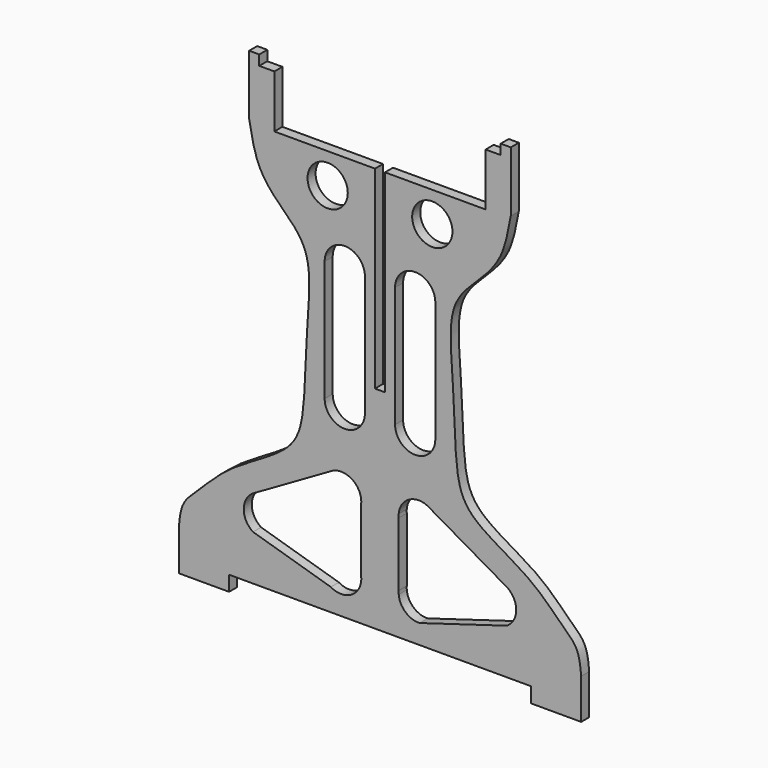
from build123d import *

# Parameters (mm, degrees)
F0_R     = 25.4
F1_DEPTH = 12.7
F2_W     = 12.7
F2_H     = 285.75
F3_DEPTH = 12.7
F5_DEPTH = 25.4
F7_DEPTH = 25.4


with BuildPart() as f1:
    # F0 (on Front) → F1 (new body)
    with BuildSketch(Plane.XZ):
        with BuildLine():
            Line((-6.35, 304.8), (0, 304.8))
            Line((0, 304.8), (0, 530.225))
            Line((0, 530.225), (-133.35, 530.225))
            Line((-133.35, 530.225), (-133.35, 596.9))
            Line((-133.35, 596.9), (-152.4, 596.9))
            Line((-152.4, 596.9), (-152.4, 609.6))
            Line((-152.4, 609.6), (-165.1, 609.6))
            Line((-165.1, 609.6), (-165.1, 533.4))
            add(Edge.make_bspline(
                [(-165.1, 533.4), (-161.9697013836, 516.0048850618), (-155.9318714731, 482.4525764355), (-125.5393550755, 449.0081112221), (-83.7666001834, 411.9480381505), (-93.3500119565, 326.8509854997), (-94.3836877464, 236.6940625404), (-106.4749493008, 180.4716743188), (-188.1929374524, 143.9043740357), (-228.1831750573, 100.3946907978), (-251.0192334088, 81.1936508198), (-252.9963492936, 61.0338134106), (-254, 50.8)],
                knots=[0, 0, 0, 0, 0.0959731621, 0.1851164057, 0.2805519957, 0.4025177519, 0.5319500735, 0.6289458648, 0.7530416243, 0.8572624534, 0.9275416072, 1, 1, 1, 1], degree=3))
            Line((-254, 50.8), (-254, 0))
            Line((-254, 0), (-190.5, 0))
            Line((-190.5, 0), (-190.5, 19.05))
            Line((-190.5, 19.05), (-6.35, 19.05))
            Line((-6.35, 19.05), (-6.35, 304.8))
        make_face()
        with BuildLine():
            Line((-62.0009822206, 47.1459924547), (-160.2498111723, 76.4396733512))
            ThreePointArc((-160.2498111723, 76.4396733512), (-171.9552123835, 98.4274609924), (-159.2389195946, 119.8464973987))
            Line((-159.2389195946, 119.8464973987), (-59.3678694771, 177.3668921793))
            ThreePointArc((-59.3678694771, 177.3668921793), (-34.2386394195, 174.8714173249), (-23.6816051959, 151.9311769942))
            Line((-23.6816051959, 151.9311769942), (-23.6816051959, 71.2117587397))
            ThreePointArc((-23.6816051959, 71.2117587397), (-35.4723478909, 47.4454693261), (-62.0009822206, 47.1459924547))
        make_face(mode=Mode.SUBTRACT)
        with Locations((-66.0427957773, 491.9940531254)):
            Circle(F0_R, mode=Mode.SUBTRACT)
        with BuildLine():
            Line((0, 530.225), (0, 304.8))
            Line((0, 304.8), (6.35, 304.8))
            Line((6.35, 304.8), (6.35, 19.05))
            Line((6.35, 19.05), (190.5, 19.05))
            Line((190.5, 19.05), (190.5, 0))
            Line((190.5, 0), (254, 0))
            Line((254, 0), (254, 50.8))
            add(Edge.make_bspline(
                [(165.1, 533.4), (161.9697013836, 516.0048850618), (155.9318714731, 482.4525764355), (125.5393550755, 449.0081112221), (83.7666001834, 411.9480381505), (93.3500119565, 326.8509854997), (94.3836877464, 236.6940625404), (106.4749493008, 180.4716743188), (188.1929374524, 143.9043740357), (228.1831750573, 100.3946907978), (251.0192334088, 81.1936508198), (252.9963492936, 61.0338134106), (254, 50.8)],
                knots=[0, 0, 0, 0, 0.0959731621, 0.1851164057, 0.2805519957, 0.4025177519, 0.5319500735, 0.6289458648, 0.7530416243, 0.8572624534, 0.9275416072, 1, 1, 1, 1], degree=3))
            Line((165.1, 533.4), (165.1, 609.6))
            Line((165.1, 609.6), (152.4, 609.6))
            Line((152.4, 609.6), (152.4, 596.9))
            Line((152.4, 596.9), (133.35, 596.9))
            Line((133.35, 596.9), (133.35, 530.225))
            Line((133.35, 530.225), (0, 530.225))
        make_face()
        with BuildLine():
            ThreePointArc((59.3678694771, 177.3668921793), (61.6579975727, 176.198075446), (63.8182289317, 174.8037226477))
            Line((63.8182289317, 174.8037226477), (159.2389195946, 119.8464973987))
            ThreePointArc((159.2389195946, 119.8464973987), (171.9552123835, 98.4274609924), (160.2498111723, 76.4396733512))
            Line((160.2498111723, 76.4396733512), (50.0307281778, 43.5769646513))
            ThreePointArc((50.0307281778, 43.5769646513), (32.2279529913, 49.8636621936), (23.6816051959, 66.6987835085))
            ThreePointArc((23.6816051959, 66.6987835085), (23.5811756199, 68.9552711241), (23.6816051959, 71.2117587397))
            Line((23.6816051959, 71.2117587397), (23.6816051959, 151.9311769942))
            ThreePointArc((23.6816051959, 151.9311769942), (23.5811756199, 154.1876646098), (23.6816051959, 156.4441522254))
            ThreePointArc((23.6816051959, 156.4441522254), (36.1344354237, 176.0993342479), (59.3678694771, 177.3668921793))
        make_face(mode=Mode.SUBTRACT)
        with Locations((66.0427957773, 491.9940531254)):
            Circle(F0_R, mode=Mode.SUBTRACT)
    extrude(amount=F1_DEPTH)

    # F2 (on face) → F3 (join)
    with BuildSketch(Plane.XZ.offset(12.7)):
        with Locations((0, 161.925)):
            Rectangle(F2_W, F2_H)
    extrude(amount=-F3_DEPTH)

    # F4 (on face) → F5 (cut)
    with BuildSketch(Plane.XZ.offset(12.7)):
        Polygon((6.35, 609.6), (0, 609.6), (-6.35, 609.6), (-6.35, 285.75), (6.35, 285.75), align=None)
    extrude(amount=-F5_DEPTH, mode=Mode.SUBTRACT)

    # F6 (on face) → F7 (cut)
    with BuildSketch(Plane.XZ.offset(12.7)):
        with BuildLine():
            Line((-19.05, 254), (-19.05, 406.4))
            ThreePointArc((-19.05, 406.4), (-44.45, 431.8), (-69.85, 406.4))
            Line((-69.85, 406.4), (-69.85, 254))
            ThreePointArc((-69.85, 254), (-44.45, 228.6), (-19.05, 254))
        make_face()
        with BuildLine():
            Line((69.85, 254), (69.85, 406.4))
            ThreePointArc((69.85, 406.4), (44.45, 431.8), (19.05, 406.4))
            Line((19.05, 406.4), (19.05, 254))
            ThreePointArc((19.05, 254), (44.45, 228.6), (69.85, 254))
        make_face()
    extrude(amount=-F7_DEPTH, mode=Mode.SUBTRACT)


solid = f1.part
